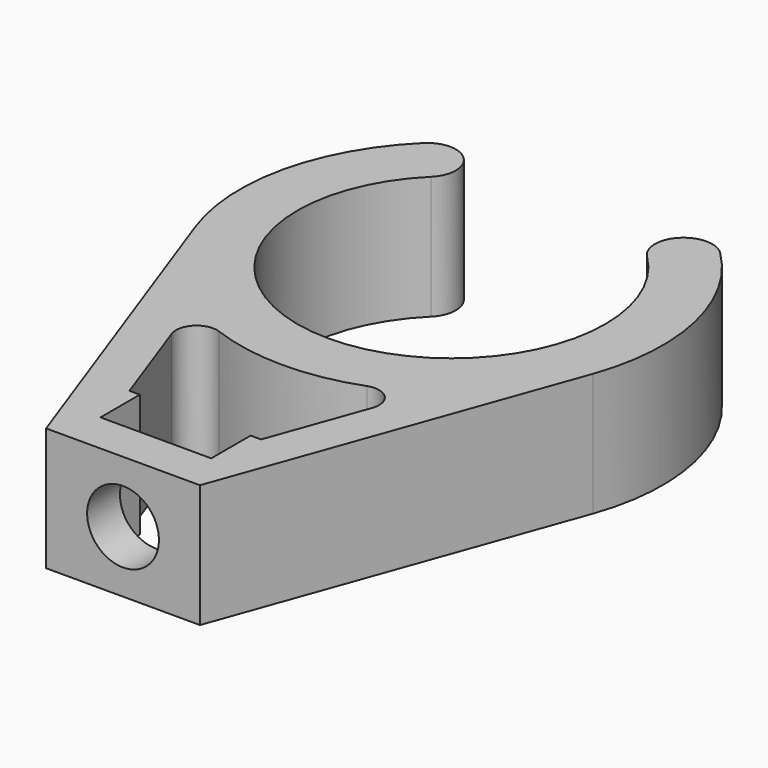
from build123d import *

# Parameters (mm, degrees)
F1_DEPTH = 6
F2_R     = 1.75
F3_DEPTH = 2


with BuildPart() as f1:
    # F0 (on Top) → F1 (new body)
    with BuildSketch(Plane.XY):
        with BuildLine():
            ThreePointArc((5.266854, 5.339499), (0, -7.5), (-5.266854, 5.339499))
            ThreePointArc((-5.266854, 5.339499), (-5.253294, 7.319352), (-7.233146, 7.332912))
            ThreePointArc((-7.233146, 7.332912), (-10.04399, 2.282162), (-9.69168, -3.48731))
            Line((-9.69168, -3.48731), (-3.75, -20))
            Line((-3.75, -20), (3.75, -20))
            Line((3.75, -20), (9.69168, -3.48731))
            ThreePointArc((9.69168, -3.48731), (10.04399, 2.282162), (7.233146, 7.332912))
            ThreePointArc((7.233146, 7.332912), (5.253294, 7.319352), (5.266854, 5.339499))
        make_face()
        with BuildLine():
            ThreePointArc((-4.889418, -10.92628), (-4.651488, -9.876526), (-3.599055, -9.650741))
            ThreePointArc((-3.599055, -9.650741), (0, -10.3), (3.599055, -9.650741))
            ThreePointArc((3.599055, -9.650741), (4.651488, -9.876526), (4.889418, -10.92628))
            Line((4.889418, -10.92628), (3.207696, -15.6))
            Line((3.207696, -15.6), (2.7, -15.6))
            Line((2.7, -15.6), (2.7, -18))
            Line((2.7, -18), (2.344116, -18))
            Line((2.344116, -18), (-2.344116, -18))
            Line((-2.344116, -18), (-2.7, -18))
            Line((-2.7, -18), (-2.7, -15.6))
            Line((-2.7, -15.6), (-3.207696, -15.6))
            Line((-3.207696, -15.6), (-4.889418, -10.92628))
        make_face(mode=Mode.SUBTRACT)
    extrude(amount=F1_DEPTH)

    # F2 (on face) → F3 (cut, through all)
    with BuildSketch(Plane.XZ.offset(20)):
        with Locations((0, 3)):
            Circle(F2_R)
    extrude(amount=-F3_DEPTH, mode=Mode.SUBTRACT)


solid = f1.part
